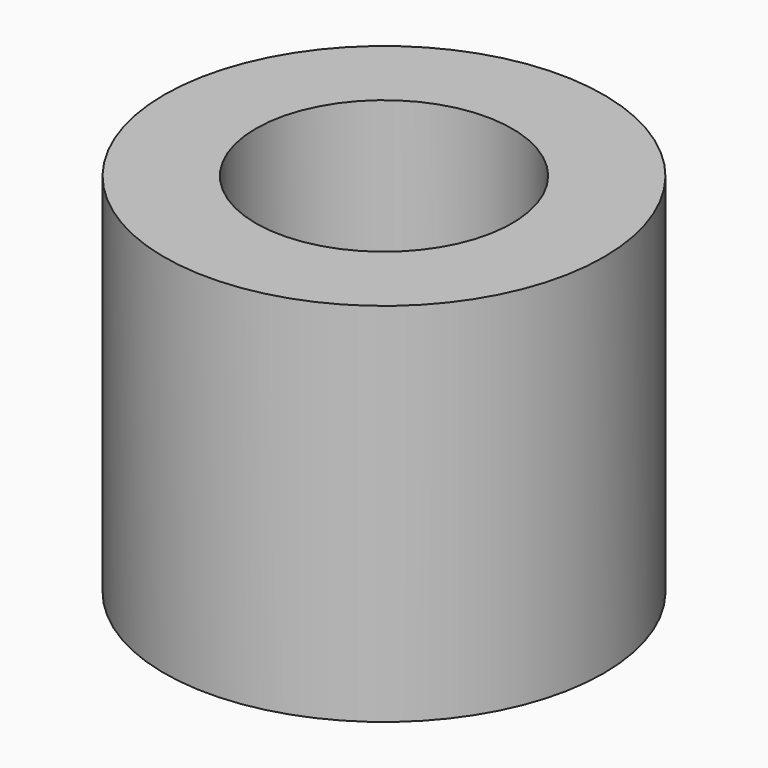
from build123d import *

# Parameters (mm, degrees)
F0_R     = 3
F1_DEPTH = 5
F3_D     = 3.5


with BuildPart() as f1:
    # F0 (on Top) → F1 (new body)
    with BuildSketch(Plane.XY):
        with Locations((-36.211099, -53.830635)):
            Circle(F0_R)
    extrude(amount=F1_DEPTH)

    # F3 (through all)
    with Locations(Plane.XY.offset(5)):
        with Locations((-36.211099, -53.830635)):
            Hole(F3_D / 2)


solid = f1.part
